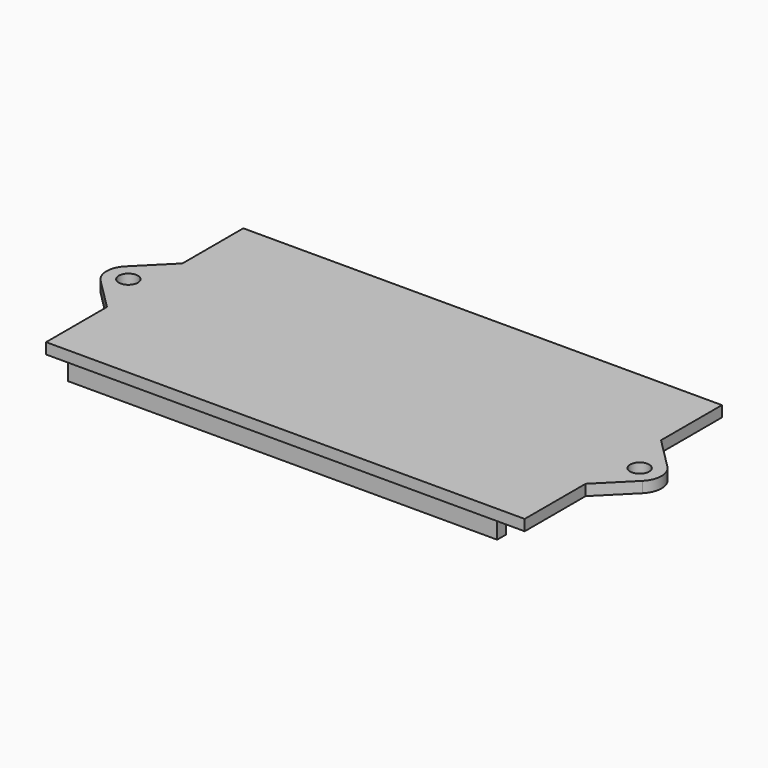
from build123d import *

# Parameters (mm, degrees)
SKETCH087_W   = 83.35
SKETCH087_H   = 40.75
SKETCH087_W_2 = 79.35
SKETCH087_H_2 = 36.75
PAD056_DEPTH  = 0.5
SKETCH088_R   = 1.75
PAD057_DEPTH  = 2
PAD058_DEPTH  = 4


with BuildPart() as part:
    # Sketch087 → Pad056 (new body)
    with BuildSketch(Plane.XY):
        with Locations((2.3, 0)):
            Rectangle(SKETCH087_W, SKETCH087_H)
        with Locations((2.3, 0)):
            Rectangle(SKETCH087_W_2, SKETCH087_H_2, mode=Mode.SUBTRACT)
    extrude(amount=PAD056_DEPTH)

    # Sketch088 (on Face10 of Pad056) → Pad057 (join)
    with BuildSketch(Plane.XY.offset(0.5)):
        with BuildLine():
            Line((-41.625, 22.625), (46.225, 22.625))
            Line((46.225, 22.625), (46.225, 8.656854))
            Line((52.053427, 2.828427), (46.225, 8.656854))
            ThreePointArc((52.053427, -2.828427), (53.225, 0), (52.053427, 2.828427))
            Line((52.053427, -2.828427), (46.225, -8.656854))
            Line((46.225, -8.656854), (46.225, -22.625))
            Line((46.225, -22.625), (-41.625, -22.625))
            Line((-41.625, -22.625), (-41.625, -8.656854))
            Line((-47.453427, -2.828427), (-41.625, -8.656854))
            ThreePointArc((-47.453427, 2.828427), (-48.625, 0), (-47.453427, -2.828427))
            Line((-47.453427, 2.828427), (-41.625, 8.656854))
            Line((-41.625, 8.656854), (-41.625, 22.625))
        make_face()
        with Locations((-44.625, 0)):
            Circle(SKETCH088_R, mode=Mode.SUBTRACT)
        with Locations((49.225, 0)):
            Circle(SKETCH088_R, mode=Mode.SUBTRACT)
    extrude(amount=PAD057_DEPTH)

    # Sketch089 (on Face21 of Pad057) → Pad058 (join)
    with BuildSketch(Plane(origin=(0, 0, 0), x_dir=(1, 0, 0), z_dir=(0, 0, -1))):
        Polygon((-39.375, 20.375), (-39.375, -20.375), (39.375, -20.375), (39.375, -18.375), (-37.375, -18.375), (-37.375, 18.375), (39.375, 18.375), (39.375, 20.375), align=None)
    extrude(amount=PAD058_DEPTH)


with BuildPart() as part_1:
    # Body019 placement: moved
    add(part.part.moved(Location((0, 0, 24.5))))


solid = part_1.part
